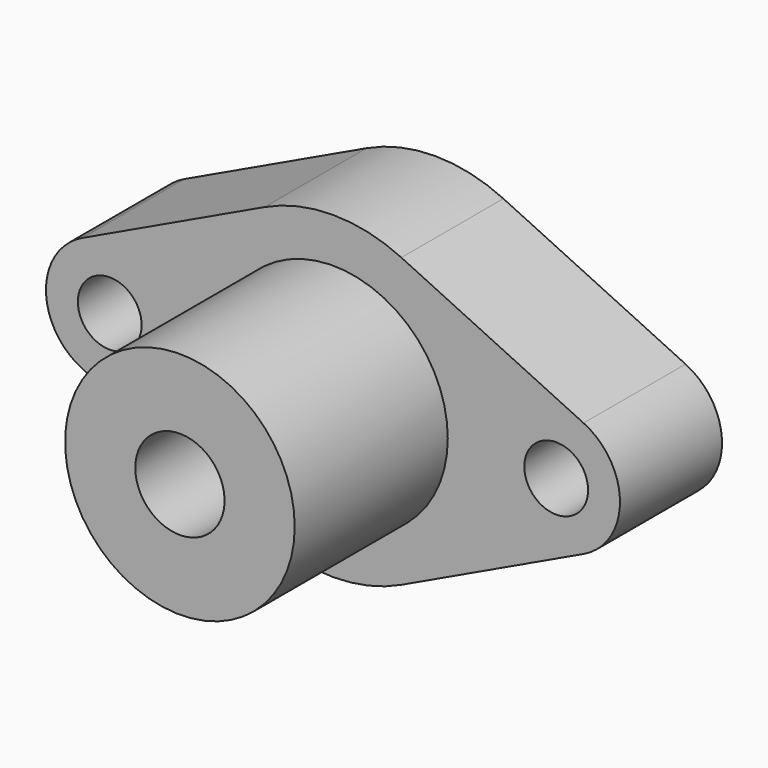
from build123d import *

# Parameters (mm, degrees)
F1_DEPTH = 20
F2_R     = 25
F3_R     = 10
F4_R     = 18
F5_DEPTH = 30
F7_D     = 10
F8_D     = 14
F8_DEPTH = 25
F8_TIP   = 4.2060243332


with BuildPart() as f1:
    # F0 (on Front) → F1 (new body)
    with BuildSketch(Plane.XZ):
        Polygon((0, 27.6699295265), (-58.3333333333, 0), (0, -27.6699295265), (58.3333333333, 0), align=None)
    extrude(amount=-F1_DEPTH)

    # F2
    f2_edges = [f1.edges().sort_by_distance(p)[0] for p in [
        (0, 10, -27.66993),
        (0, 10, 27.66993),
    ]]
    fillet(f2_edges, radius=F2_R)

    # F3
    f3_edges = [f1.edges().sort_by_distance(p)[0] for p in [
        (-58.333333, 10, 0),
        (58.333333, 10, 0),
    ]]
    fillet(f3_edges, radius=F3_R)

    # F4 (on face) → F5 (join)
    with BuildSketch(Plane.XZ):
        Circle(F4_R)
    extrude(amount=F5_DEPTH)

    # F7 (through all)
    with Locations(Plane.XZ):
        with Locations((-35, 0), (35, 0)):
            Hole(F7_D / 2)

    # F8
    with Locations(Plane.XZ.offset(30)):
        with Locations((0, 0)):
            Hole(F8_D / 2, depth=F8_DEPTH)
            with Locations((0, 0, -(F8_DEPTH + F8_TIP / 2))):  # 118° drill point
                Cone(0, F8_D / 2, F8_TIP, mode=Mode.SUBTRACT)


solid = f1.part
